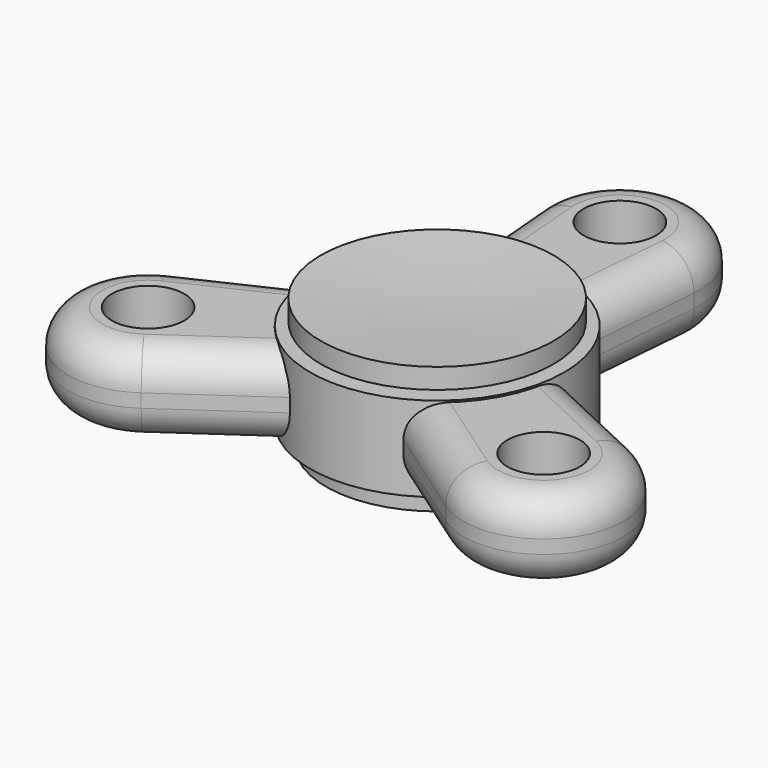
from build123d import *

# Parameters (mm, degrees)
F0_R     = 5.4149007814
F1_DEPTH = 6.096
F3_COUNT = 3
F4_R     = 18.9689787015
F4_R_2   = 11.5772478005
F5_DEPTH = 6.35
F8_R     = 5.08
F8_2_R   = 5.08
F8_3_R   = 5.08


with BuildPart() as f1:
    # F0 (on Top) → F1 (new body, symmetric)
    with BuildSketch(Plane.XY):
        with BuildLine():
            ThreePointArc((11.8714947369, 33.1369327768), (11.9029351139, 33.6357979143), (11.9134213929, 34.13554281))
            ThreePointArc((11.9134213929, 34.13554281), (-0.4997448956, 46.0384779238), (-11.8714947369, 33.1369327768))
            ThreePointArc((-11.8714947369, 33.1369327768), (0, 22.222121417), (11.8714947369, 33.1369327768))
        make_face()
        with Locations((0, 34.13554281)):
            Circle(F0_R, mode=Mode.SUBTRACT)
        with BuildLine():
            ThreePointArc((11.8714947369, 33.1369327768), (0, 22.222121417), (-11.8714947369, 33.1369327768))
            Line((-11.8714947369, 33.1369327768), (-10.2132127013, 13.4232449473))
            Line((-10.2132127013, 13.4232449473), (10.2132127013, 13.4232449473))
            Line((10.2132127013, 13.4232449473), (11.8714947369, 33.1369327768))
        make_face()
    extrude(amount=F1_DEPTH, both=True)


with BuildPart() as f3_1:
    # F3: instance of F1
    add(f1.part.rotate(Axis((0, 0, 0), (0, 0, 1)), 1 * 360 / F3_COUNT))

    # F8
    f8_edges = [f3_1.edges().sort_by_distance(p)[0] for p in [
        (-25.682325, -2.077086, -6.096),
        (-25.682325, -2.077086, 6.096),
    ]]
    fillet(f8_edges, radius=F8_R)


with BuildPart() as f3_2:
    # F3: instance of F1
    add(f1.part.rotate(Axis((0, 0, 0), (0, 0, 1)), 2 * 360 / F3_COUNT))

    # F8#3
    f8_3_edges = [f3_2.edges().sort_by_distance(p)[0] for p in [
        (25.682325, -2.077086, -6.096),
        (25.682325, -2.077086, 6.096),
    ]]
    fillet(f8_3_edges, radius=F8_3_R)


with BuildPart() as f5:
    # F4 (on Top) → F5 (new body, symmetric)
    with BuildSketch(Plane.XY):
        Circle(F4_R)
        Circle(F4_R_2, mode=Mode.SUBTRACT)
    extrude(amount=F5_DEPTH, both=True)


with BuildPart() as f7:
    # F6 (on Right) → F7 (revolve)
    with BuildSketch(Plane.YZ):
        with BuildLine():
            Line((17.3846520483, 6.9308807142), (17.3846520483, 9.965098463))
            add(Edge.make_bspline(
                [(17.3846520483, 9.965098463), (13.1810894375, 9.6929410587), (6.0148408518, 9.2289661416), (1.7593246877, 9.2208799988), (0, 9.2175370082)],
                knots=[0, 0, 0, 0, 0.5865778392, 1, 1, 1, 1], degree=3))
            Line((0, 9.2175370082), (0, -8.4161050618))
            add(Edge.make_bspline(
                [(16.5931154042, -9.4714844599), (12.7069789041, -9.1908892907), (5.9826876326, -8.7053675786), (1.7756746939, -8.5019588055), (0, -8.4161050618)],
                knots=[0, 0, 0, 0, 0.5779250695, 1, 1, 1, 1], degree=3))
            Line((16.5931154042, -9.4714844599), (16.5931154042, -6.7450865172))
            Line((16.5931154042, -6.7450865172), (8.8976360857, -6.7450865172))
            Line((8.8976360857, -6.7450865172), (8.8976360857, 6.9308807142))
            Line((8.8976360857, 6.9308807142), (17.3846520483, 6.9308807142))
        make_face()
    revolve(axis=Axis((0, 0, 0.4007159732), (0, 0, 1)))


with BuildPart() as f1_1:
    add(f1.part)

    # F8#2
    f8_2_edges = [f1_1.edges().sort_by_distance(p)[0] for p in [
        (-11.042354, 23.280089, -6.096),
        (-11.042354, 23.280089, 6.096),
    ]]
    fillet(f8_2_edges, radius=F8_2_R)


solid = Compound([f3_1.part, f3_2.part, f5.part, f7.part, f1_1.part])
